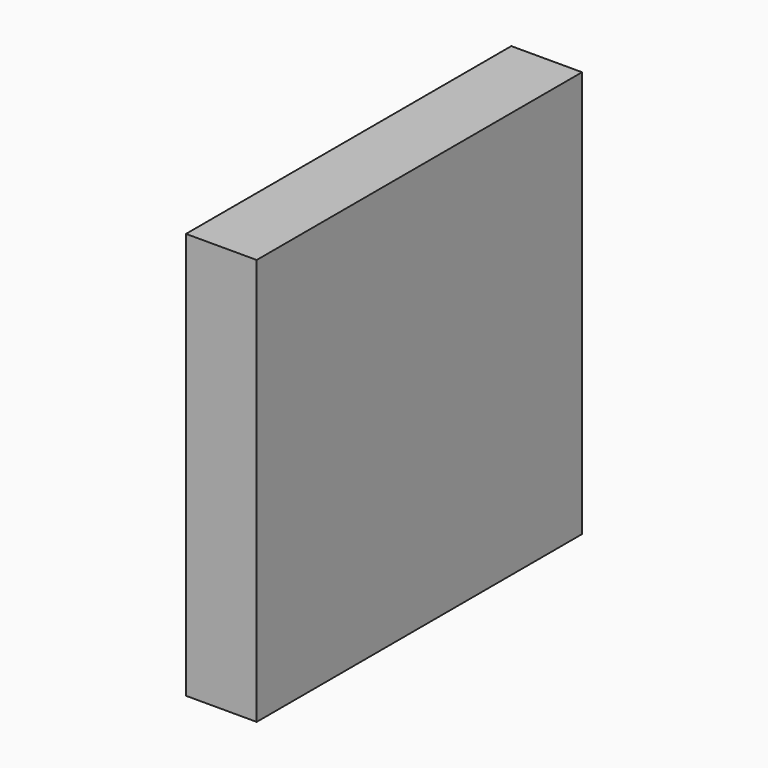
from build123d import *

# Parameters (mm, degrees)
F2_W     = 146.05
F2_H     = 146.05
F3_DEPTH = 25.4


with BuildPart() as f3:
    # F2 (on face) → F3 (new body)
    with BuildSketch(Plane.YZ):
        with Locations((-30.852705, -18.670182)):
            Rectangle(F2_W, F2_H)
    extrude(amount=F3_DEPTH)


solid = f3.part
